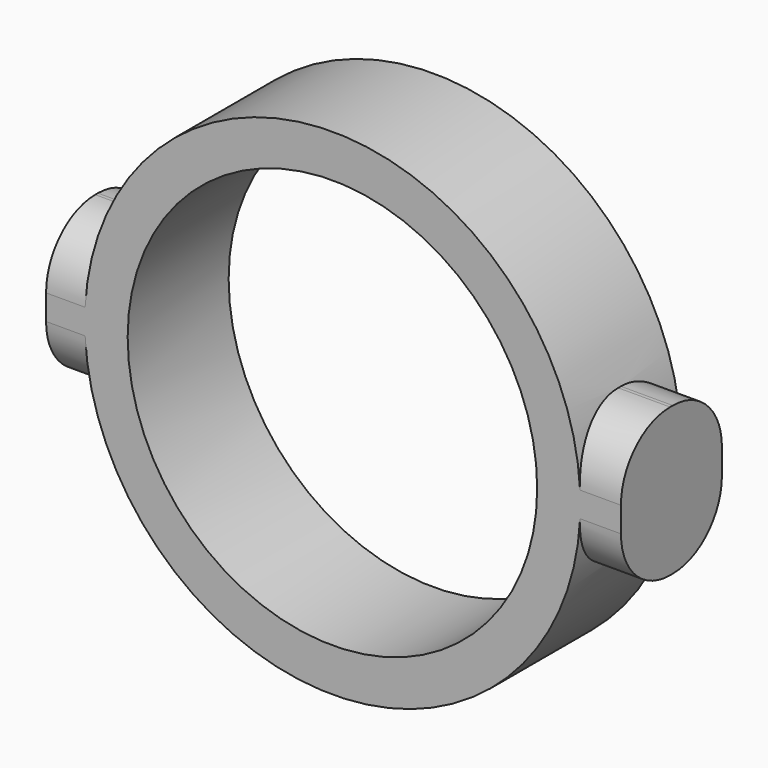
from build123d import *

# Parameters (mm, degrees)
F1_DEPTH = 14.0906665474
F3_D     = 45.72
F4_R     = 6.858
F5_R     = 6.858


with BuildPart() as f1:
    # F0 (on Front) → F1 (new body)
    with BuildSketch(Plane.XZ):
        with BuildLine():
            ThreePointArc((26.423855446, -8.2792220637), (27.3665356573, -4.201095127), (27.6831785203, -0.0274273648))
            ThreePointArc((27.6831785203, -0.0274273648), (27.364375928, 4.1603676932), (26.4153157441, 8.251644671))
            Line((26.4153157441, 8.251644671), (-26.3786924152, 8.251644671))
            ThreePointArc((-26.3786924152, 8.251644671), (-27.6465515, -0.0131359372), (-26.3872321171, -8.2792220637))
            Line((-26.3872321171, -8.2792220637), (26.423855446, -8.2792220637))
        make_face()
        with BuildLine():
            ThreePointArc((26.4153157441, 8.251644671), (27.364375928, 4.1603676932), (27.6831785203, -0.0274273648))
            ThreePointArc((27.6831785203, -0.0274273648), (27.3665356573, -4.201095127), (26.423855446, -8.2792220637))
            Line((26.423855446, -8.2792220637), (32.2108827531, -8.2792220637))
            Line((32.2108827531, -8.2792220637), (32.2108827531, 8.251644671))
            Line((32.2108827531, 8.251644671), (26.4153157441, 8.251644671))
        make_face()
        with BuildLine():
            Line((-26.3786924152, 8.251644671), (26.4153157441, 8.251644671))
            ThreePointArc((26.4153157441, 8.251644671), (0.0183116645, 27.6374394911), (-26.3786924152, 8.251644671))
        make_face()
        with BuildLine():
            ThreePointArc((-26.3872321171, -8.2792220637), (0.0183116645, -27.6922942207), (26.423855446, -8.2792220637))
            Line((26.423855446, -8.2792220637), (-26.3872321171, -8.2792220637))
        make_face()
        with BuildLine():
            ThreePointArc((-26.3872321171, -8.2792220637), (-27.6465515, -0.0131359372), (-26.3786924152, 8.251644671))
            Line((-26.3786924152, 8.251644671), (-31.9677777588, 8.251644671))
            Line((-31.9677777588, 8.251644671), (-31.9677777588, -8.2792220637))
            Line((-31.9677777588, -8.2792220637), (-26.3872321171, -8.2792220637))
        make_face()
    extrude(amount=F1_DEPTH)

    # F3 (through all)
    with Locations(Plane(origin=(0, 0, 0), x_dir=(1, 0, 0), z_dir=(0, 1, 0))):
        with Locations((0, 0)):
            Hole(F3_D / 2)

    # F4
    f4_edges = [f1.edges().sort_by_distance(p)[0] for p in [
        (29.317369, -14.090667, -8.279222),
        (29.317369, 0, -8.279222),
        (29.313099, -14.090667, 8.251645),
        (29.313099, 0, 8.251645),
    ]]
    fillet(f4_edges, radius=F4_R)

    # F5
    f5_edges = [f1.edges().sort_by_distance(p)[0] for p in [
        (-29.177505, -14.090667, -8.279222),
        (-29.173235, -14.090667, 8.251645),
        (-29.173235, 0, 8.251645),
        (-29.177505, 0, -8.279222),
    ]]
    fillet(f5_edges, radius=F5_R)


solid = f1.part
